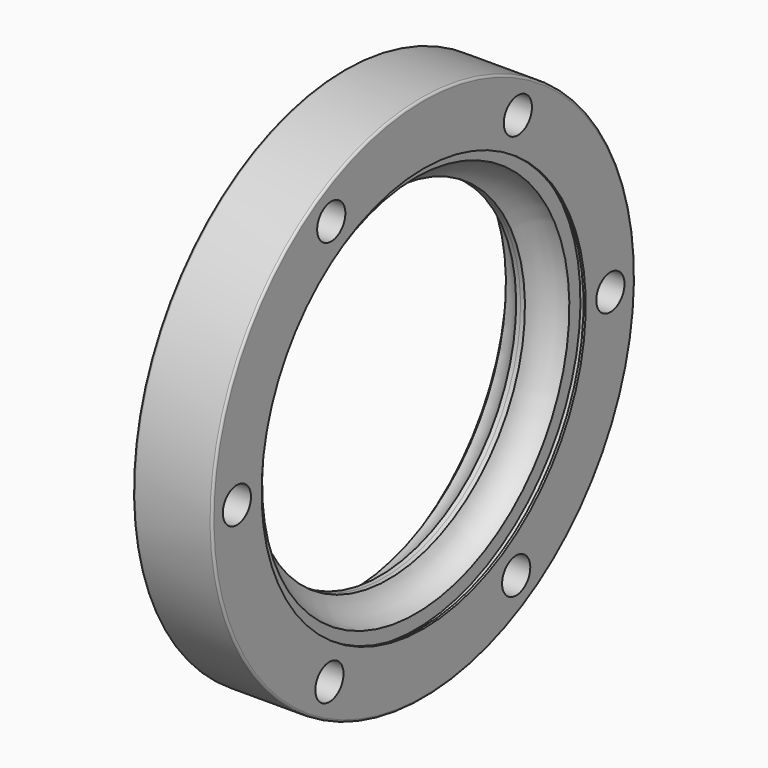
from build123d import *

# Parameters (mm, degrees)
F2_R     = 0.5
F4_R     = 4
F5_DEPTH = 18


with BuildPart() as f1:
    # F0 (on Front) → F1 (revolve)
    with BuildSketch(Plane.XZ):
        with BuildLine():
            Line((9, 60), (0, 60))
            Line((0, 60), (0, 38.75))
            Line((0, 38.75), (1, 38.75))
            ThreePointArc((1, 38.75), (3.422249, 42.041403), (7.2, 43.6))
            Line((7.2, 43.6), (7.2, 46))
            Line((7.2, 46), (7.2, 46.751757))
            Line((7.2, 46.751757), (8.5, 46.751757))
            Line((8.5, 46.751757), (8.5, 46))
            Line((8.5, 46), (9, 46))
            Line((9, 46), (9, 60))
        make_face()
    revolve(axis=Axis((13.202514, 0, 0), (1, 0, 0)))

    # F2
    f2_edges = [f1.edges().sort_by_distance(p)[0] for p in [
        (9, 0, -60),
    ]]
    fillet(f2_edges, radius=F2_R)

    # F3: F1 across face


with BuildPart() as f1_1:
    add(f1.part)
    add(f1.part.mirror(Plane(origin=(0, 0, 0), x_dir=(0, -1, 0), z_dir=(-1, 0, 0))))

    # F4 (on face) → F5 (cut)
    with BuildSketch(Plane.YZ.offset(9)):
        with Locations((-52.995591, 0.275232)):
            Circle(F4_R)
        with Locations((-26.217681, 46.06119)):
            Circle(F4_R)
        with Locations((26.736153, 45.757913)):
            Circle(F4_R)
        with Locations((52.995591, -0.275232)):
            Circle(F4_R)
        with Locations((26.261273, -46.036364)):
            Circle(F4_R)
        with Locations((-26.736153, -45.757913)):
            Circle(F4_R)
    extrude(amount=-F5_DEPTH, mode=Mode.SUBTRACT)


solid = f1_1.part
